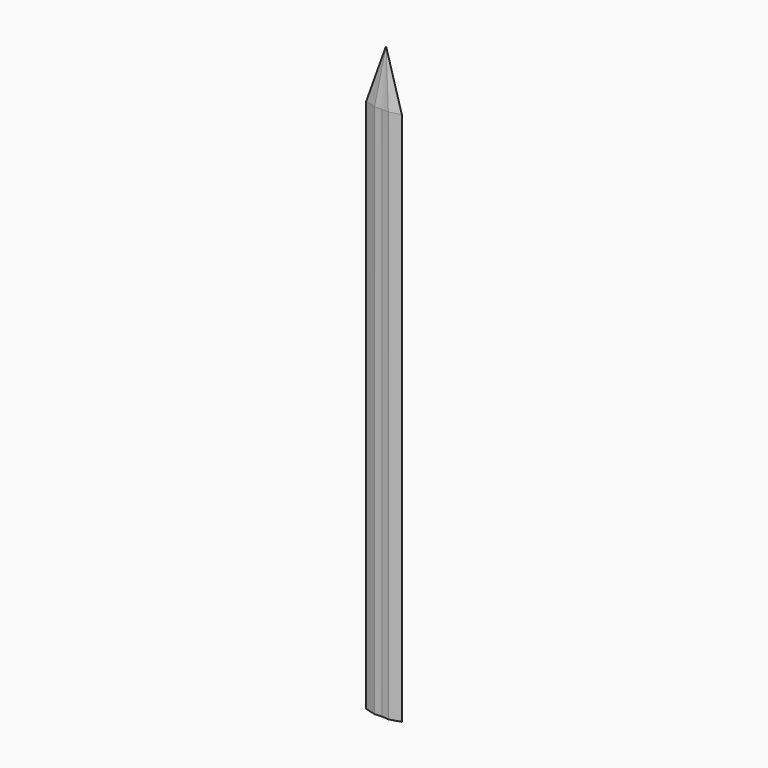
from build123d import *

# Parameters (mm, degrees)
F1_DEPTH = 500


with BuildPart() as f1:
    # F0 (on Top) → F1 (new body)
    with BuildSketch(Plane.XY):
        with BuildLine():
            Line((-6.469195, 3.359005), (-16.670616, 0))
            Line((-16.670616, 0), (-6.469195, -2.966833))
            ThreePointArc((-6.469195, -2.966833), (-3.242872, -2.619714), (0, -2.50381))
            Line((0, -2.50381), (0, 2.905908))
            ThreePointArc((0, 2.905908), (-3.242521, 3.019321), (-6.469195, 3.359005))
        make_face()
        with BuildLine():
            ThreePointArc((6.469195, 3.359005), (3.242521, 3.019321), (0, 2.905908))
            Line((0, 2.905908), (0, -2.50381))
            ThreePointArc((0, -2.50381), (3.242872, -2.619714), (6.469195, -2.966833))
            Line((6.469195, -2.966833), (16.670616, 0))
            Line((16.670616, 0), (6.469195, 3.359005))
        make_face()
    extrude(amount=F1_DEPTH)

    # F2 (on face) → F5 section 0
    with BuildSketch(Plane.XY.offset(500), mode=Mode.PRIVATE) as f5_s0:
        with BuildLine():
            Line((16.670616, 0), (6.469195, 3.359005))
            ThreePointArc((6.469195, 3.359005), (0, 2.905908), (-6.469195, 3.359005))
            Line((-6.469195, 3.359005), (-16.670616, 0))
            Line((-16.670616, 0), (-6.469195, -2.966833))
            ThreePointArc((-6.469195, -2.966833), (0, -2.50381), (6.469195, -2.966833))
            Line((6.469195, -2.966833), (16.670616, 0))
        make_face()
    loft([Vertex(0, 2.363744, 550), f5_s0.sketch])


solid = f1.part
